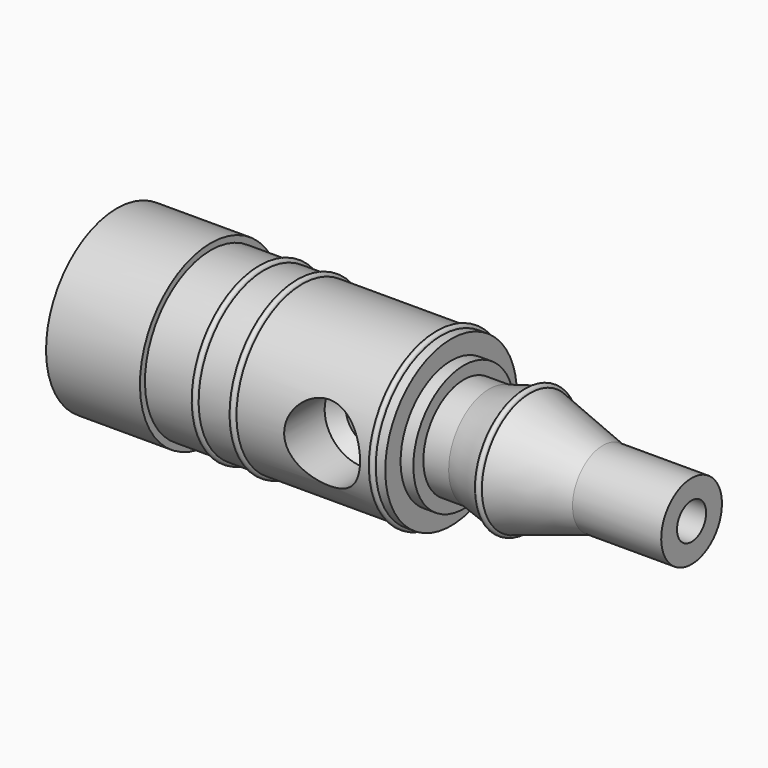
from build123d import *

# Parameters (mm, degrees)
F3_D     = 4.572
F3_DEPTH = 25.4
F3_TIP   = 1.3735673751


with BuildPart() as f1:
    # F0 (on Front) → F1 (revolve)
    with BuildSketch(Plane.XZ):
        with BuildLine():
            Line((54.7197226037, 4.7625), (43.5945226037, 4.7625))
            Line((43.5945226037, 4.7625), (34.4505226037, 7.5565))
            ThreePointArc((34.4505226037, 7.5565), (34.0695226037, 7.9375), (33.6885226037, 7.5565))
            Line((33.6885226037, 7.5565), (29.3197226037, 6.35))
            Line((29.3197226037, 6.35), (26.1447226037, 6.35))
            Line((26.1447226037, 6.35), (26.1447226037, 7.9214277489))
            Line((26.1447226037, 7.9214277489), (24.5445226037, 7.9214277489))
            Line((24.5445226037, 7.9214277489), (24.5445226037, 10.3251))
            Line((24.5445226037, 10.3251), (23.3507226037, 10.3251))
            ThreePointArc((23.3507226037, 10.3251), (22.9697226037, 10.7061), (22.5887226037, 10.3251))
            Line((22.5887226037, 10.3251), (5.8755226037, 10.3251))
            ThreePointArc((5.8755226037, 10.3251), (5.4945226037, 10.7061), (5.1135226037, 10.3251))
            Line((5.1135226037, 10.3251), (1.1257226037, 10.3251))
            ThreePointArc((1.1257226037, 10.3251), (0.7447226037, 10.7061), (0.3637226037, 10.3251))
            Line((0.3637226037, 10.3251), (-5.6052773963, 10.3251))
            Line((-5.6052773963, 10.3251), (-5.6052773963, 11.1125))
            Line((-5.6052773963, 11.1125), (-17.3887645346, 11.1125))
            Line((-17.3887645346, 11.1125), (-19.296497, 7.9375))
            Line((-19.296497, 7.9375), (-19.296497, 0))
            Line((-19.296497, 0), (54.7197226037, 0))
            Line((54.7197226037, 0), (54.7197226037, 4.7625))
        make_face()
    revolve(axis=Axis((17.7116128019, 0, 0), (1, 0, 0)))

    # F3
    with Locations(Plane.YZ.offset(54.7197226037)):
        with Locations((0, 0)):
            Hole(F3_D / 2, depth=F3_DEPTH)
            with Locations((0, 0, -(F3_DEPTH + F3_TIP / 2))):  # 118° drill point
                Cone(0, F3_D / 2, F3_TIP, mode=Mode.SUBTRACT)

    # F4 (on Top) → F5 (revolve, cut)
    with BuildSketch(Plane.XY):
        Polygon((16.6197226037, 10.3251), (11.8572226037, 10.3251), (11.8572226037, 3.9751), (13.2276758795, 2.3876), (15.3243226037, 2.3876), (15.3243226037, -2.3876), (13.2276758795, -2.3876), (11.8572226037, -3.9751), (11.8572226037, -10.3251), (16.6197226037, -10.3251), align=None)
    revolve(axis=Axis((16.6197226037, 0, 0), (0, -1, 0)), mode=Mode.SUBTRACT)


solid = f1.part
